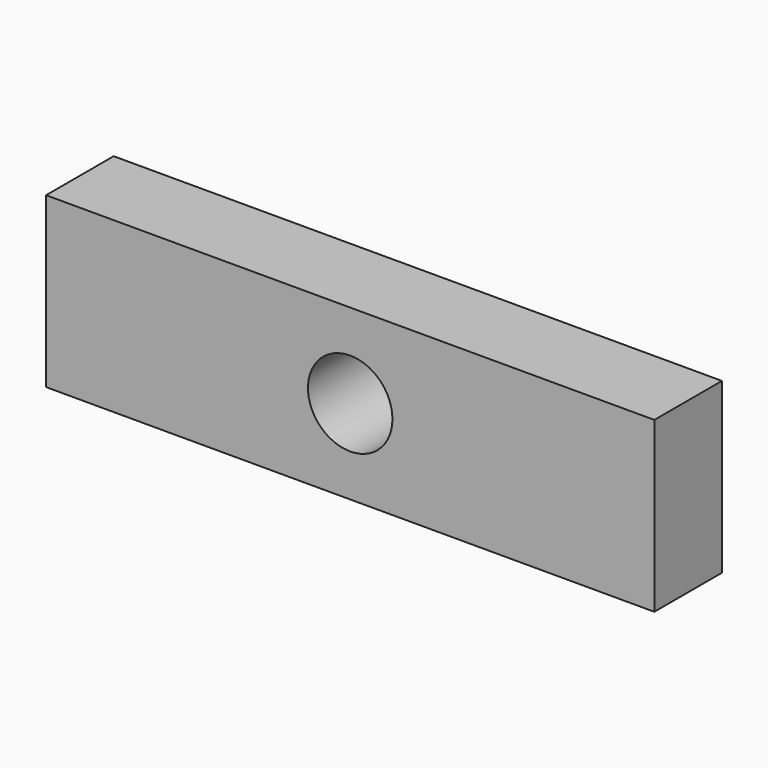
from build123d import *

# Parameters (mm, degrees)
F0_W     = 72
F0_H     = 20
F0_R     = 5
F1_DEPTH = 10


with BuildPart() as f1:
    # F0 (on Front) → F1 (new body)
    with BuildSketch(Plane.XZ):
        with Locations((-6.965993, -6.516091)):
            Rectangle(F0_W, F0_H)
        with Locations((-6.965993, -6.516091)):
            Circle(F0_R, mode=Mode.SUBTRACT)
        with Locations((-6.965993, -6.516091)):
            Rectangle(F0_W, F0_H)
        with Locations((-6.965993, -6.516091)):
            Circle(F0_R, mode=Mode.SUBTRACT)
    extrude(amount=F1_DEPTH)


solid = f1.part
